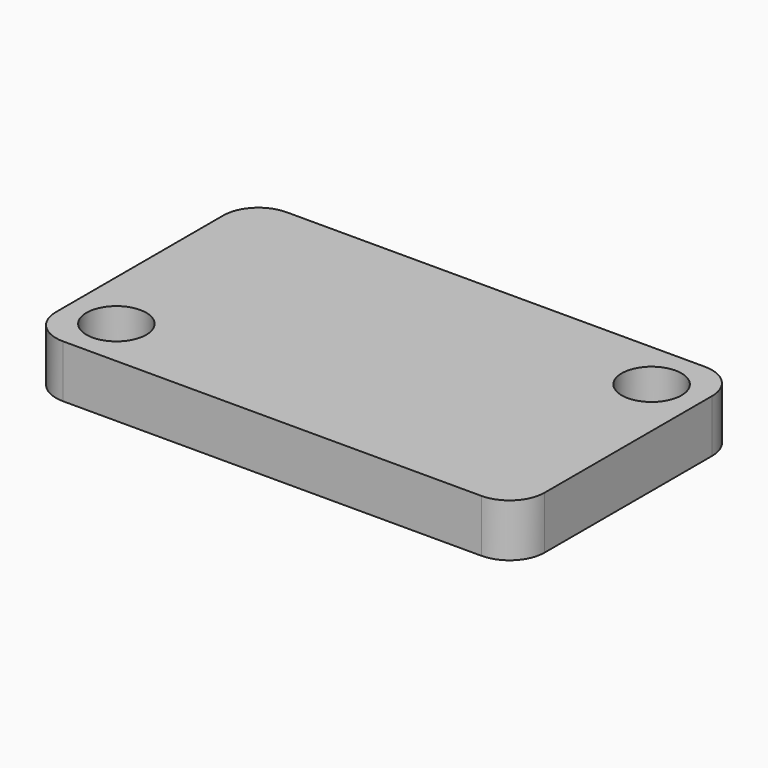
from build123d import *

# Parameters (mm, degrees)
SKETCH_W  = 27.8
SKETCH_H  = 15.9
SKETCH_R  = 1.7
PAD_DEPTH = 3
FILLET_R  = 2


with BuildPart() as part:
    # Sketch → Pad (new body)
    with BuildSketch(Plane.XY):
        Rectangle(SKETCH_W, SKETCH_H)
        with Locations((-11.1, -5.15)):
            Circle(SKETCH_R, mode=Mode.SUBTRACT)
        with Locations((11.1, 5.15)):
            Circle(SKETCH_R, mode=Mode.SUBTRACT)
    extrude(amount=PAD_DEPTH)

    # Fillet
    fillet_edges = [part.edges().sort_by_distance(p)[0] for p in [
        (13.9, -7.95, 1.5),
        (13.9, 7.95, 1.5),
        (-13.9, -7.95, 1.5),
        (-13.9, 7.95, 1.5),
    ]]
    fillet(fillet_edges, radius=FILLET_R)


solid = part.part
